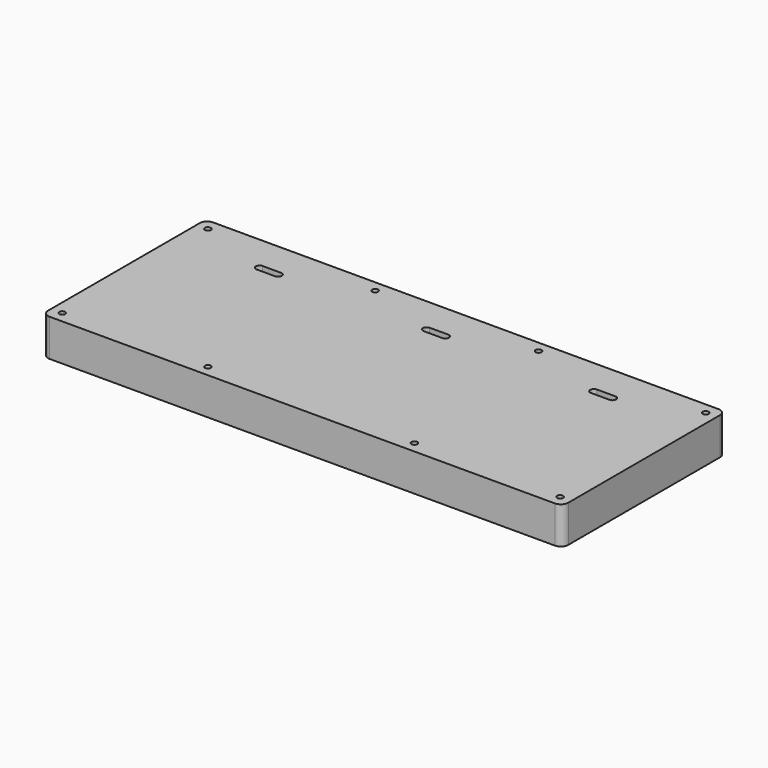
from build123d import *

# Parameters (mm, degrees)
SKETCH022_R     = 1.6
PAD008_DEPTH    = 5
PAD009_DEPTH    = 15
SKETCH024_R     = 2.5
POCKET014_DEPTH = 6.5
SKETCH025_R     = 1.6
POCKET015_DEPTH = 5


with BuildPart() as part:
    # Sketch022 (on ShapeBinder) → Pad008 (new body)
    with BuildSketch(Plane(origin=(0, 0, -95), x_dir=(1, 0, 0), z_dir=(0, 0, -1))):
        with BuildLine():
            Line((-136, 55), (136, 55))
            ThreePointArc((140, 51), (138.828427, 53.828427), (136, 55))
            Line((140, -51), (140, 51))
            ThreePointArc((136, -55), (138.828427, -53.828427), (140, -51))
            Line((-136, -55), (136, -55))
            ThreePointArc((-140, -51), (-138.828427, -53.828427), (-136, -55))
            Line((-140, 51), (-140, -51))
            ThreePointArc((-136, 55), (-138.828427, 53.828427), (-140, 51))
        make_face()
        with Locations((134, 49)):
            Circle(SKETCH022_R, mode=Mode.SUBTRACT)
        with Locations((134, -49)):
            Circle(SKETCH022_R, mode=Mode.SUBTRACT)
        with Locations((44, -49)):
            Circle(SKETCH022_R, mode=Mode.SUBTRACT)
        with Locations((-44, -49)):
            Circle(SKETCH022_R, mode=Mode.SUBTRACT)
        with Locations((-134, -49)):
            Circle(SKETCH022_R, mode=Mode.SUBTRACT)
        with Locations((-134, 49)):
            Circle(SKETCH022_R, mode=Mode.SUBTRACT)
        with Locations((-55.592233, 49)):
            Circle(SKETCH022_R, mode=Mode.SUBTRACT)
        with Locations((55.592233, 49)):
            Circle(SKETCH022_R, mode=Mode.SUBTRACT)
        with BuildLine():
            ThreePointArc((-95, -33), (-97, -35), (-95, -37))
            Line((-95, -37), (-85, -37))
            ThreePointArc((-85, -37), (-83, -35), (-85, -33))
            Line((-95, -33), (-85, -33))
        make_face(mode=Mode.SUBTRACT)
        with BuildLine():
            ThreePointArc((-5, -33), (-7, -35), (-5, -37))
            Line((-5, -37), (5, -37))
            ThreePointArc((5, -37), (7, -35), (5, -33))
            Line((-5, -33), (5, -33))
        make_face(mode=Mode.SUBTRACT)
        with BuildLine():
            ThreePointArc((85, -33), (83, -35), (85, -37))
            Line((85, -37), (95, -37))
            ThreePointArc((95, -37), (97, -35), (95, -33))
            Line((85, -33), (95, -33))
        make_face(mode=Mode.SUBTRACT)
    extrude(amount=PAD008_DEPTH)

    # Sketch023 (on Face30 of Pad008) → Pad009 (join)
    with BuildSketch(Plane(origin=(0, 0, -100), x_dir=(1, 0, 0), z_dir=(0, 0, -1))):
        with BuildLine():
            Line((-136, 55), (136, 55))
            ThreePointArc((140, 51), (138.828427, 53.828427), (136, 55))
            Line((140, 51), (140, -51))
            ThreePointArc((136, -55), (138.828427, -53.828427), (140, -51))
            Line((136, -55), (-136, -55))
            ThreePointArc((-140, -51), (-138.828427, -53.828427), (-136, -55))
            Line((-140, -51), (-140, 51))
            ThreePointArc((-136, 55), (-138.828427, 53.828427), (-140, 51))
        make_face()
        with BuildLine():
            ThreePointArc((-46.828427, -50), (-44, -52), (-41.171573, -50))
            Line((-41.171573, -50), (-5, -50))
            ThreePointArc((5, -50), (0, -45), (-5, -50))
            Line((41.171573, -50), (5, -50))
            ThreePointArc((41.171573, -50), (44, -52), (46.828427, -50))
            Line((46.828427, -50), (116.171573, -50))
            ThreePointArc((126.171573, -50), (121.171573, -45), (116.171573, -50))
            Line((131.171573, -50), (126.171573, -50))
            ThreePointArc((131.171573, -50), (136.12132, -51.12132), (135, -46.171573))
            Line((135, -46.171573), (135, -5))
            ThreePointArc((135, 5), (130, 0), (135, -5))
            Line((135, 46.171573), (135, 5))
            ThreePointArc((135, 46.171573), (136.12132, 51.12132), (131.171573, 50))
            Line((131.171573, 50), (126.171573, 50))
            ThreePointArc((116.171573, 50), (121.171573, 45), (126.171573, 50))
            Line((58.42066, 50), (116.171573, 50))
            ThreePointArc((58.42066, 50), (55.592233, 52), (52.763806, 50))
            Line((52.763806, 50), (5, 50))
            ThreePointArc((-5, 50), (0, 45), (5, 50))
            Line((-52.763806, 50), (-5, 50))
            ThreePointArc((-52.763806, 50), (-55.592233, 52), (-58.42066, 50))
            Line((-58.42066, 50), (-116.171573, 50))
            ThreePointArc((-126.171573, 50), (-121.171573, 45), (-116.171573, 50))
            Line((-131.171573, 50), (-126.171573, 50))
            ThreePointArc((-131.171573, 50), (-136.12132, 51.12132), (-135, 46.171573))
            Line((-135, 46.171573), (-135, 5))
            ThreePointArc((-135, -5), (-130, 0), (-135, 5))
            Line((-135, -46.171573), (-135, -5))
            ThreePointArc((-135, -46.171573), (-136.12132, -51.12132), (-131.171573, -50))
            Line((-131.171573, -50), (-126.171573, -50))
            ThreePointArc((-116.171573, -50), (-121.171573, -45), (-126.171573, -50))
            Line((-46.828427, -50), (-116.171573, -50))
        make_face(mode=Mode.SUBTRACT)
    extrude(amount=PAD009_DEPTH)

    # Sketch024 (on Face33 of Pad009) → Pocket014 (cut)
    with BuildSketch(Plane(origin=(0, 0, -115), x_dir=(1, 0, 0), z_dir=(0, 0, -1))):
        with Locations((-121.171573, 50)):
            Circle(SKETCH024_R)
        with Locations((0, 50)):
            Circle(SKETCH024_R)
        with Locations((121.171573, 50)):
            Circle(SKETCH024_R)
        with Locations((-135, 0)):
            Circle(SKETCH024_R)
        with Locations((-121.171573, -50)):
            Circle(SKETCH024_R)
        with Locations((0, -50)):
            Circle(SKETCH024_R)
        with Locations((121.171573, -50)):
            Circle(SKETCH024_R)
        with Locations((135, 0)):
            Circle(SKETCH024_R)
    extrude(amount=-POCKET014_DEPTH, mode=Mode.SUBTRACT)

    # Sketch025 (on Face83 of Pocket014) → Pocket015 (cut)
    with BuildSketch(Plane(origin=(0, 0, -108.5), x_dir=(1, 0, 0), z_dir=(0, 0, -1))):
        with Locations((-121.171573, 50)):
            Circle(SKETCH025_R)
        with Locations((-135, 0)):
            Circle(SKETCH025_R)
        with Locations((0, 50)):
            Circle(SKETCH025_R)
        with Locations((-121.171573, -50)):
            Circle(SKETCH025_R)
        with Locations((0, -50)):
            Circle(SKETCH025_R)
        with Locations((121.171573, -50)):
            Circle(SKETCH025_R)
        with Locations((135, 0)):
            Circle(SKETCH025_R)
        with Locations((121.171573, 50)):
            Circle(SKETCH025_R)
    extrude(amount=-POCKET015_DEPTH, mode=Mode.SUBTRACT)


solid = part.part
